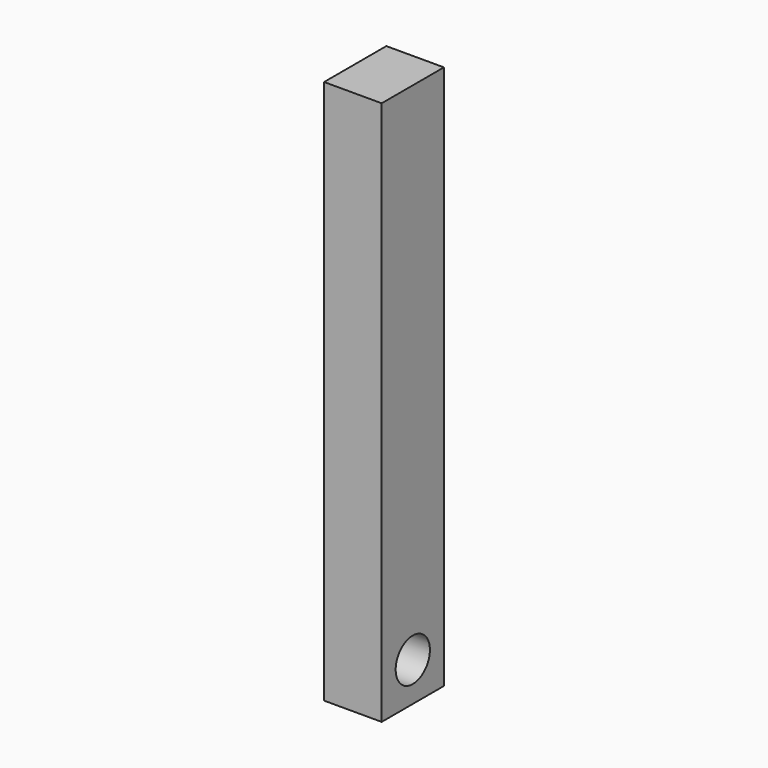
from build123d import *

# Parameters (mm, degrees)
F0_W     = 18.796
F0_H     = 25.4
F1_DEPTH = 177.8
F2_R     = 6.985
F3_DEPTH = 25.4


with BuildPart() as f1:
    # F0 (on Top) → F1 (new body)
    with BuildSketch(Plane.XY):
        with Locations((-9.398, 12.7)):
            Rectangle(F0_W, F0_H)
    extrude(amount=F1_DEPTH)

    # F2 (on face) → F3 (cut)
    with BuildSketch(Plane.YZ):
        with Locations((12.7, 12.7)):
            Circle(F2_R)
    extrude(amount=-F3_DEPTH, mode=Mode.SUBTRACT)


solid = f1.part
